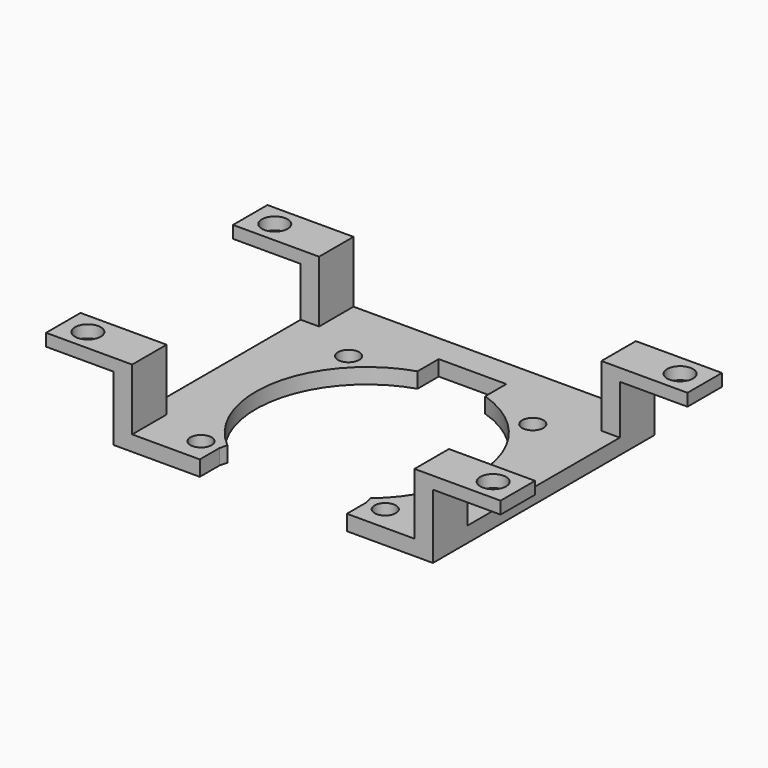
from build123d import *

# Parameters (mm, degrees)
SKETCH_R     = 1.725
PAD_DEPTH    = 2.5
SKETCH002_W  = 3
SKETCH002_H  = 7
PAD001_DEPTH = 8
SKETCH003_W  = 14
SKETCH003_H  = 7
SKETCH003_R  = 2.1
PAD002_DEPTH = 2


with BuildPart() as part:
    # Sketch → Pad (new body)
    with BuildSketch(Plane.XY):
        with BuildLine():
            Line((-19.96, -19), (-11.96, -19))
            Line((-11.96, -19), (-11.96, -15))
            Line((-11.96, -15), (-11.646424, -13.789971))
            ThreePointArc((-5.5, 17.19164), (-17.704944, 3.512474), (-11.646424, -13.789971))
            Line((-5.5, 21.5), (-5.5, 17.19164))
            Line((-5.5, 21.5), (5.5, 21.5))
            Line((5.5, 21.5), (5.5, 17.19164))
            ThreePointArc((11.646424, -13.789971), (17.704944, 3.512474), (5.5, 17.19164))
            Line((11.96, -15), (11.646424, -13.789971))
            Line((11.96, -19), (11.96, -15))
            Line((11.96, -19), (20.04, -19))
            Line((20.04, -19), (25.96, -19))
            Line((25.96, -19), (25.96, 26))
            Line((25.96, 26), (20, 26))
            Line((-20, 26), (20, 26))
            Line((-20, 26), (-25.96, 26))
            Line((-25.96, 26), (-25.96, -19))
            Line((-19.96, -19), (-25.96, -19))
        make_face()
        with Locations((-14.96, 15)):
            Circle(SKETCH_R, mode=Mode.SUBTRACT)
        with Locations((15, 15)):
            Circle(SKETCH_R, mode=Mode.SUBTRACT)
        with Locations((-14.96, -15)):
            Circle(SKETCH_R, mode=Mode.SUBTRACT)
        with Locations((15, -15)):
            Circle(SKETCH_R, mode=Mode.SUBTRACT)
    extrude(amount=PAD_DEPTH)

    # Sketch002 (on Face24 of Pad) → Pad001 (join)
    with BuildSketch(Plane.XY.offset(2.5)):
        with Locations((-24.46, 22.5)):
            Rectangle(SKETCH002_W, SKETCH002_H)
        with Locations((-24.46, -15.5)):
            Rectangle(SKETCH002_W, SKETCH002_H)
        with Locations((24.46, -15.5)):
            Rectangle(SKETCH002_W, SKETCH002_H)
        with Locations((24.46, 22.5)):
            Rectangle(SKETCH002_W, SKETCH002_H)
    extrude(amount=PAD001_DEPTH)

    # Sketch003 (on Face25 of Pad001) → Pad002 (join)
    with BuildSketch(Plane.XY.offset(10.5)):
        with Locations((-29.96, 22.5)):
            Rectangle(SKETCH003_W, SKETCH003_H)
        with Locations((-32.96, 22.5)):
            Circle(SKETCH003_R, mode=Mode.SUBTRACT)
        with Locations((-29.96, -15.5)):
            Rectangle(SKETCH003_W, SKETCH003_H)
        with Locations((-32.96, -15.5)):
            Circle(SKETCH003_R, mode=Mode.SUBTRACT)
        with Locations((29.96, -15.5)):
            Rectangle(SKETCH003_W, SKETCH003_H)
        with Locations((32.96, -15.5)):
            Circle(SKETCH003_R, mode=Mode.SUBTRACT)
        with Locations((29.96, 22.5)):
            Rectangle(SKETCH003_W, SKETCH003_H)
        with Locations((32.96, 22.5)):
            Circle(SKETCH003_R, mode=Mode.SUBTRACT)
    extrude(amount=PAD002_DEPTH)


solid = part.part
